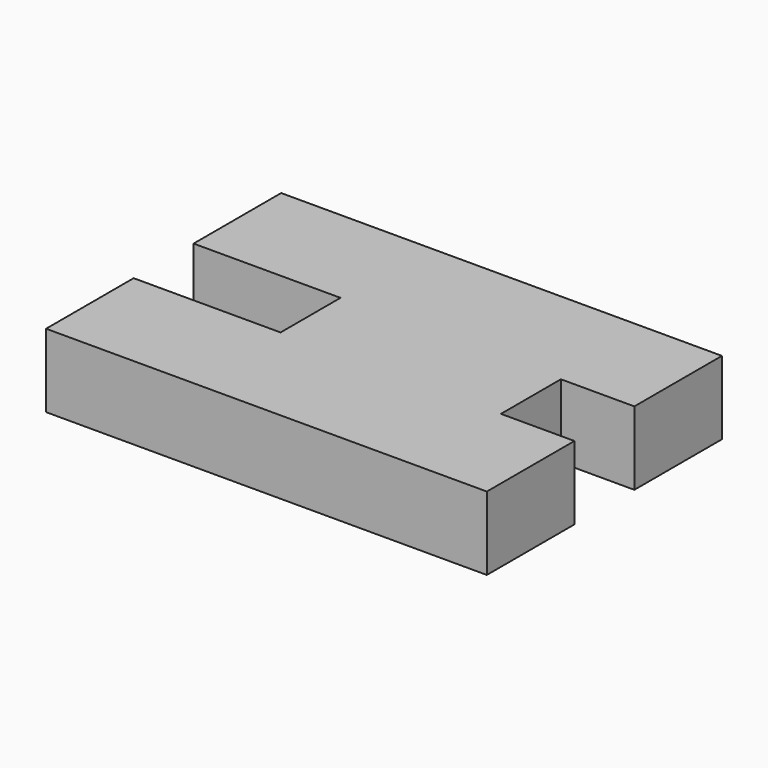
from build123d import *

# Parameters (mm, degrees)
PAD_DEPTH = 2.5


with BuildPart() as part:
    # Sketch → Pad (new body, symmetric)
    with BuildSketch(Plane.XY):
        Polygon((0, 2.55), (0, 10), (30, 10), (30, 2.55), (25, 2.55), (25, -2.55), (30, -2.55), (30, -10), (0, -10), (0, -2.55), (10, -2.55), (10, 2.55), align=None)
    extrude(amount=PAD_DEPTH, both=True)


solid = part.part
